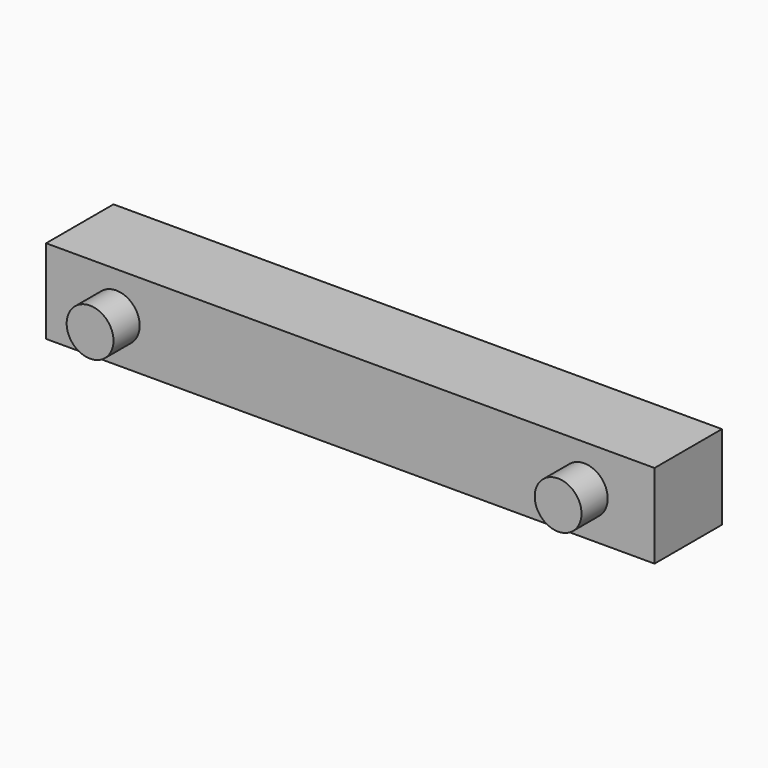
from build123d import *

# Parameters (mm, degrees)
F0_W     = 65
F0_H     = 9
F0_R     = 2.5
F1_DEPTH = 9
F2_DEPTH = 12.5


with BuildPart() as f1:
    # F0 (on Front) → F1 (new body)
    with BuildSketch(Plane.XZ):
        with Locations((-32.5, 4.5)):
            Rectangle(F0_W, F0_H)
        with Locations((-57.5, 4.5)):
            Circle(F0_R, mode=Mode.SUBTRACT)
        with Locations((-7.5, 4.5)):
            Circle(F0_R, mode=Mode.SUBTRACT)
    extrude(amount=F1_DEPTH)

    # F0 (on Front) → F2 (join)
    with BuildSketch(Plane.XZ):
        with Locations((-57.5, 4.5)):
            Circle(F0_R)
        with Locations((-7.5, 4.5)):
            Circle(F0_R)
    extrude(amount=F2_DEPTH)


solid = f1.part
